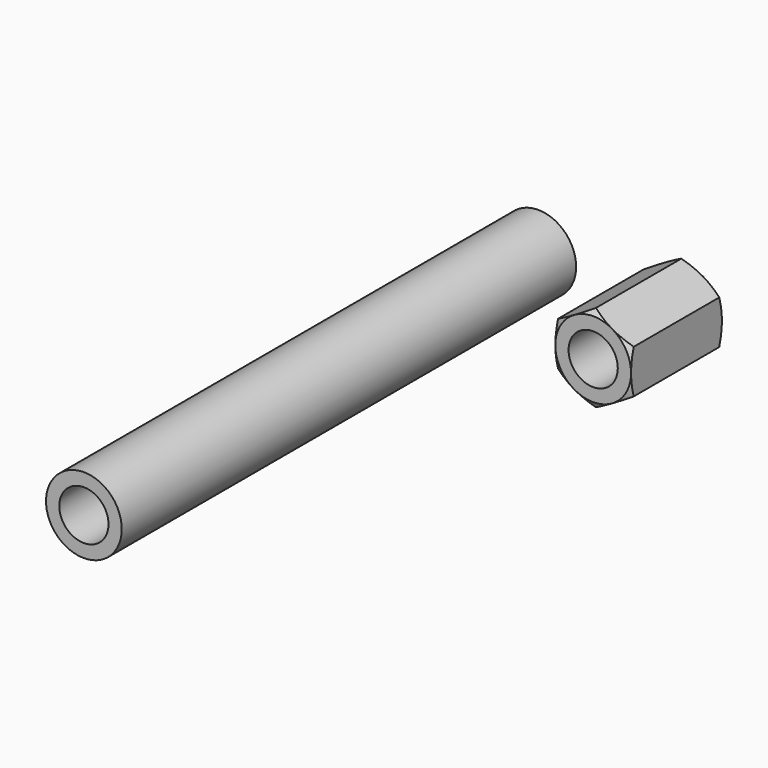
from build123d import *

# Parameters (mm, degrees)
F0_R     = 1.3
F1_DEPTH = 6
F4_R     = 2
F4_R_2   = 1.3
F5_DEPTH = 30


with BuildPart() as f1:
    # F0 (on Front) → F1 (new body)
    with BuildSketch(Plane.XZ):
        Polygon((2, -1.154701), (2, 1.154701), (0, 2.309401), (-2, 1.154701), (-2, -1.154701), (0, -2.309401), align=None)
        Circle(F0_R, mode=Mode.SUBTRACT)
    extrude(amount=F1_DEPTH)

    # F2 (on Top) → F3 (revolve, cut)
    with BuildSketch(Plane.XY):
        Polygon((2, 0), (7.196152, -3), (7.196152, 0), align=None)
        Polygon((7.196152, -3), (2, -6), (7.196152, -6), align=None)
    revolve(axis=Axis((0, -0.031898, 0), (0, 1, 0)), mode=Mode.SUBTRACT)


with BuildPart() as f5:
    # F4 (on Front) → F5 (new body)
    with BuildSketch(Plane.XZ):
        Circle(F4_R)
        Circle(F4_R_2, mode=Mode.SUBTRACT)
    extrude(amount=F5_DEPTH)


with BuildPart() as f5_1:
    # F6: moved
    add(f5.part.moved(Location((-7.7, 0, 0))))


solid = Compound([f1.part, f5_1.part])
